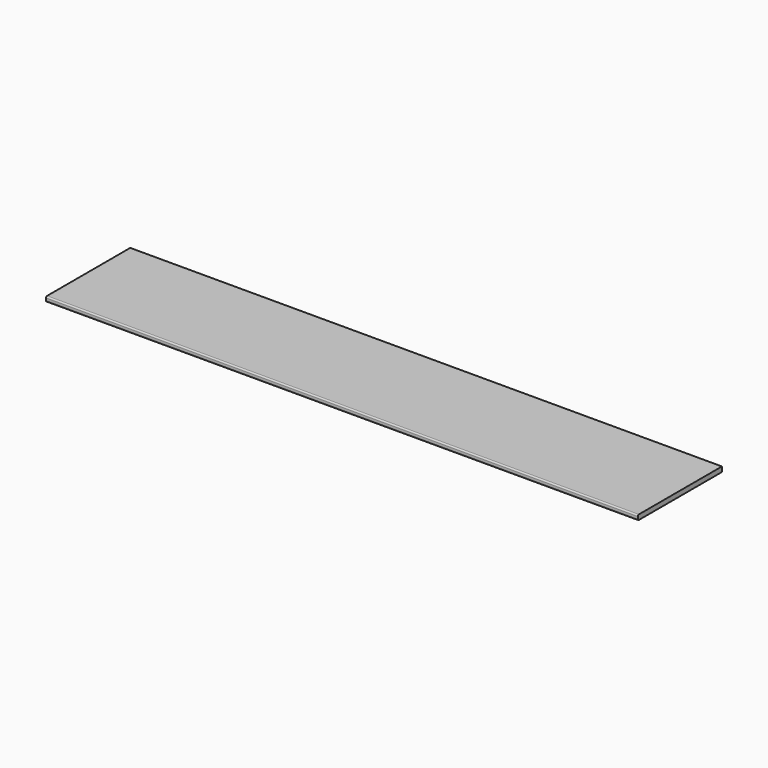
from build123d import *

# Parameters (mm, degrees)
F0_W          = 2286
F0_H          = 406.4
F1_DEPTH      = 9.525
F1_DEPTH_BACK = 9.525
F2_R          = 5.08


with BuildPart() as f1:
    # F0 (on Top) → F1 (new body, two sides)
    with BuildSketch(Plane.XY) as f1_sk:
        Rectangle(F0_W, F0_H)
    extrude(amount=F1_DEPTH)
    extrude(f1_sk.sketch, amount=-F1_DEPTH_BACK)

    # F2
    f2_edges = [f1.edges().sort_by_distance(p)[0] for p in [
        (0, -203.2, 9.525),
        (0, -203.2, -9.525),
    ]]
    fillet(f2_edges, radius=F2_R)


solid = f1.part
